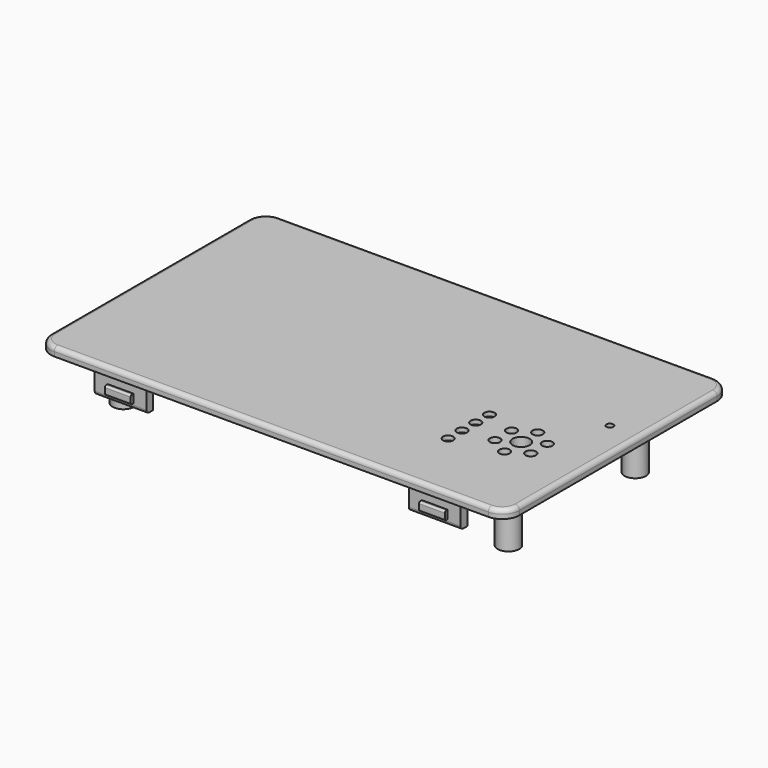
from build123d import *

# Parameters (mm, degrees)
SKETCH012_W     = 65.42
SKETCH012_H     = 108.85
PAD003_DEPTH    = 2
SKETCH017_W     = 59.02
SKETCH017_H     = 102.45
PAD004_DEPTH    = 1
SKETCH018_R     = 2.5
PAD005_DEPTH    = 12.8
SKETCH019_R     = 1.4
POCKET008_DEPTH = 4
SKETCH020_R     = 1.2
SKETCH020_R_2   = 2
SKETCH020_R_3   = 0.8
POCKET009_DEPTH = 3.001
SKETCH021_W     = 2
SKETCH021_H     = 12
PAD006_DEPTH    = 6.2
SKETCH022_W     = 6
SKETCH022_H     = 2
PAD007_DEPTH    = 0.8
SKETCH023_W     = 6
SKETCH023_H     = 2
PAD008_DEPTH    = 0.8
FILLET004_R     = 4
FILLET005_R     = 1
FILLET006_R     = 1
FILLET007_R     = 0.8
FILLET008_R     = 0.4
FILLET009_R     = 0.4
FILLET011_R     = 1.6
FILLET012_R     = 2
SKETCH030_R     = 1.6
POCKET014_DEPTH = 2


with BuildPart() as part:
    # Sketch012 (on DatumPlane) → Pad003 (new body)
    with BuildSketch(Plane(origin=(50.925, 29.21, 49), x_dir=(0, 1, 0), z_dir=(0, 0, 1))):
        Rectangle(SKETCH012_W, SKETCH012_H)
    extrude(amount=PAD003_DEPTH)

    # Sketch017 (on Face5 of Pad003) → Pad004 (join)
    with BuildSketch(Plane(origin=(50.925, 29.21, 49), x_dir=(0, 1, 0), z_dir=(0, 0, -1))):
        Rectangle(SKETCH017_W, SKETCH017_H)
    extrude(amount=PAD004_DEPTH)

    # Sketch018 (on DatumPlane) → Pad005 (join)
    with BuildSketch(Plane(origin=(50.925, 29.21, 48), x_dir=(0, 1, 0), z_dir=(0, 0, -1))):
        with Locations((-18.415, 43.639)):
            Circle(SKETCH018_R)
        with Locations((18.415, 43.639)):
            Circle(SKETCH018_R)
        with Locations((-18.415, -45.82)):
            Circle(SKETCH018_R)
        with Locations((18.415, -45.82)):
            Circle(SKETCH018_R)
    extrude(amount=PAD005_DEPTH)

    # Sketch019 (on DatumPlane) → Pocket008 (cut)
    with BuildSketch(Plane(origin=(50.925, 29.21, 35.2), x_dir=(0, 1, 0), z_dir=(0, 0, -1))):
        with Locations((-18.415, -45.82)):
            Circle(SKETCH019_R)
        with Locations((18.415, -45.82)):
            Circle(SKETCH019_R)
        with Locations((-18.415, 43.639)):
            Circle(SKETCH019_R)
        with Locations((18.415, 43.639)):
            Circle(SKETCH019_R)
    extrude(amount=-POCKET008_DEPTH, mode=Mode.SUBTRACT)

    # Sketch020 (on DatumPlane) → Pocket009 (cut, through all)
    with BuildSketch(Plane(origin=(50.925, 29.21, 48), x_dir=(0, 1, 0), z_dir=(0, 0, -1))):
        with Locations((-16.21, 27.875)):
            Circle(SKETCH020_R)
        with Locations((-12.21, 27.875)):
            Circle(SKETCH020_R)
        with Locations((-8.21, 27.875)):
            Circle(SKETCH020_R)
        with Locations((-4.21, 27.875)):
            Circle(SKETCH020_R)
        with Locations((-9.01, 39.075)):
            Circle(SKETCH020_R_2)
        with Locations((6.07, 47.635)):
            Circle(SKETCH020_R_3)
        with Locations((-6.61, 34.918078)):
            Circle(SKETCH020_R)
        with Locations((-11.41, 34.918078)):
            Circle(SKETCH020_R)
        with Locations((-13.81, 39.075)):
            Circle(SKETCH020_R)
        with Locations((-11.41, 43.231922)):
            Circle(SKETCH020_R)
        with Locations((-6.61, 43.231922)):
            Circle(SKETCH020_R)
        with Locations((-4.21, 39.075)):
            Circle(SKETCH020_R)
    extrude(amount=-POCKET009_DEPTH, mode=Mode.SUBTRACT)

    # Sketch021 (on DatumPlane) → Pad006 (join)
    with BuildSketch(Plane(origin=(50.925, 29.21, 49), x_dir=(0, 1, 0), z_dir=(0, 0, -1))):
        with Locations((-29.61, -36.725)):
            Rectangle(SKETCH021_W, SKETCH021_H)
        with Locations((-29.61, 36.275)):
            Rectangle(SKETCH021_W, SKETCH021_H)
        with Locations((29.61, 36.275)):
            Rectangle(SKETCH021_W, SKETCH021_H)
        with Locations((29.61, -36.725)):
            Rectangle(SKETCH021_W, SKETCH021_H)
    extrude(amount=PAD006_DEPTH)

    # Sketch022 (on Face14 of Pad006) → Pad007 (join)
    with BuildSketch(Plane(origin=(50.925, 59.82, 49), x_dir=(-1, 0, 0), z_dir=(0, 1, 0))):
        with Locations((-36.275, -4)):
            Rectangle(SKETCH022_W, SKETCH022_H)
        with Locations((36.725, -4)):
            Rectangle(SKETCH022_W, SKETCH022_H)
    extrude(amount=PAD007_DEPTH)

    # Sketch023 (on Face24 of Pad007) → Pad008 (join)
    with BuildSketch(Plane(origin=(50.925, -1.4, 49), x_dir=(1, 0, 0), z_dir=(0, -1, 0))):
        with Locations((-36.725, -4)):
            Rectangle(SKETCH023_W, SKETCH023_H)
        with Locations((36.275, -4)):
            Rectangle(SKETCH023_W, SKETCH023_H)
    extrude(amount=PAD008_DEPTH)

    # Fillet004
    fillet004_edges = [part.edges().sort_by_distance(p)[0] for p in [
        (-3.5, 61.92, 50),
        (105.35, 61.92, 50),
        (105.35, -3.5, 50),
        (-3.5, -3.5, 50),
    ]]
    fillet(fillet004_edges, radius=FILLET004_R)

    # Fillet005
    fillet005_edges = [part.edges().sort_by_distance(p)[0] for p in [
        (-0.3, 58.72, 48.5),
        (-0.3, -0.3, 48.5),
        (102.15, -0.3, 48.5),
        (102.15, 58.72, 48.5),
    ]]
    fillet(fillet005_edges, radius=FILLET005_R)

    # Fillet006
    fillet006_edges = [part.edges().sort_by_distance(p)[0] for p in [
        (50.925, 61.92, 51),
    ]]
    fillet(fillet006_edges, radius=FILLET006_R)

    # Fillet007
    fillet007_edges = [part.edges().sort_by_distance(p)[0] for p in [
        (87.2, 59.82, 42.8),
        (14.2, 59.82, 42.8),
        (14.2, -1.4, 42.8),
        (87.2, -1.4, 42.8),
    ]]
    fillet(fillet007_edges, radius=FILLET007_R)

    # Fillet008
    fillet008_edges = [part.edges().sort_by_distance(p)[0] for p in [
        (87.2, 60.62, 44),
        (14.2, 60.62, 44),
        (87.2, -2.2, 44),
        (14.2, -2.2, 44),
    ]]
    fillet(fillet008_edges, radius=FILLET008_R)

    # Fillet009
    fillet009_edges = [part.edges().sort_by_distance(p)[0] for p in [
        (87.2, -2.2, 46),
        (14.2, -2.2, 46),
        (14.2, 60.62, 46),
        (87.2, 60.62, 46),
    ]]
    fillet(fillet009_edges, radius=FILLET009_R)

    # Fillet011
    fillet011_edges = [part.edges().sort_by_distance(p)[0] for p in [
        (5.105, 8.295, 48),
        (5.105, 45.125, 48),
        (94.564, 45.125, 48),
        (94.564, 8.295, 48),
    ]]
    fillet(fillet011_edges, radius=FILLET011_R)

    # Fillet012
    fillet012_edges = [part.edges().sort_by_distance(p)[0] for p in [
        (87.2, 0.6, 48),
        (14.2, 0.6, 48),
        (14.2, 57.82, 48),
        (87.2, 57.82, 48),
    ]]
    fillet(fillet012_edges, radius=FILLET012_R)

    # Sketch030 → Pocket014 (cut)
    with BuildSketch(Plane(origin=(50.925, 29.21, 48), x_dir=(0, 1, 0), z_dir=(0, 0, -1))):
        with Locations((-16.21, 27.875)):
            Circle(SKETCH030_R)
        with Locations((-12.21, 27.875)):
            Circle(SKETCH030_R)
        with Locations((-8.21, 27.875)):
            Circle(SKETCH030_R)
        with Locations((-4.21, 27.875)):
            Circle(SKETCH030_R)
    extrude(amount=-POCKET014_DEPTH, mode=Mode.SUBTRACT)


solid = part.part
